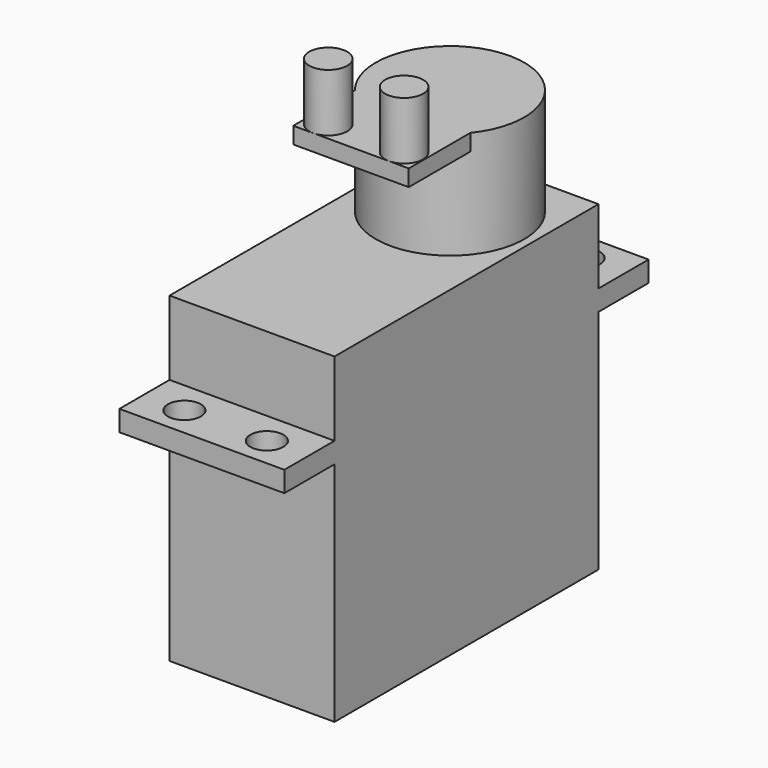
from build123d import *

# Parameters (mm, degrees)
CYLINDER001_R             = 2
CYLINDER001_DEPTH         = 10
CYLINDER_R                = 2
CYLINDER_DEPTH            = 10
BOX001_W                  = 7.6
BOX001_H                  = 20
BOX001_DEPTH              = 2.5
BOX_W                     = 40
BOX_H                     = 20
BOX_DEPTH                 = 39
BOX002_W                  = 14
BOX002_H                  = 16
BOX002_DEPTH              = 2
CYLINDER002_R             = 9
CYLINDER002_DEPTH         = 13
CYLINDER004_R             = 2.3
CYLINDER004_DEPTH         = 7
CYLINDER003_R             = 2.3
CYLINDER003_DEPTH         = 7
FUSION009_PLACEMENT_ANGLE = 90
BODY_ROLL_ANGLE           = 180
BODY_PLACEMENT_ANGLE      = -90


with BuildPart() as cylinder001:
    # Cylinder001 → Cylinder001 (new body)
    with BuildSketch(Plane(origin=(44, 15, 5), x_dir=(1, 0, 0), z_dir=(0, 0, 1))):
        Circle(CYLINDER001_R)
    extrude(amount=CYLINDER001_DEPTH)


with BuildPart() as fusion:
    # Cylinder → Cylinder (new body)
    with BuildSketch(Plane(origin=(44, 5, 5), x_dir=(1, 0, 0), z_dir=(0, 0, 1))):
        Circle(CYLINDER_R)
    extrude(amount=CYLINDER_DEPTH)

    # Fusion: union Cylinder001
    add(cylinder001.part)


with BuildPart() as cut:
    # Box001 → Box001 (new body)
    with BuildSketch(Plane(origin=(40, 0, 9), x_dir=(1, 0, 0), z_dir=(0, 0, 1))):
        with Locations((3.8, 10)):
            Rectangle(BOX001_W, BOX001_H)
    extrude(amount=BOX001_DEPTH)

    # Cut: cut Fusion
    add(fusion.part, mode=Mode.SUBTRACT)


with BuildPart() as cut_1:
    # Cut placement: moved
    add(cut.part.moved(Location((-10, -10, 0))))


with BuildPart() as part_mirroring:
    # Part__Mirroring: instance of Cut
    add(cut_1.part.mirror(Plane(origin=(0, 0, 0), x_dir=(0, -1, 0), z_dir=(1, 0, 0))))


with BuildPart() as part_mirroring_1:
    # Part__Mirroring placement: moved
    add(part_mirroring.part.moved(Location((20, 0, 0))))


with BuildPart() as fusion010:
    # Box → Box (new body)
    with BuildSketch(Plane(origin=(-10, -10, 0), x_dir=(1, 0, 0), z_dir=(0, 0, 1))):
        with Locations((20, 10)):
            Rectangle(BOX_W, BOX_H)
    extrude(amount=BOX_DEPTH)

    # Fusion010: union Part__Mirroring, Cut
    add(part_mirroring_1.part)
    add(cut_1.part)


with BuildPart() as cube002:
    # Box002 → Box002 (new body)
    with BuildSketch(Plane(origin=(-7, -15, 0), x_dir=(1, 0, 0), z_dir=(0, 0, 1))):
        with Locations((7, 8)):
            Rectangle(BOX002_W, BOX002_H)
    extrude(amount=BOX002_DEPTH)


with BuildPart() as shaft:
    # Cylinder002 → Cylinder002 (new body)
    with BuildSketch(Plane.XY):
        Circle(CYLINDER002_R)
    extrude(amount=CYLINDER002_DEPTH)


with BuildPart() as cylinder004:
    # Cylinder004 → Cylinder004 (new body)
    with BuildSketch(Plane(origin=(4.6, -12.7, -7), x_dir=(1, 0, 0), z_dir=(0, 0, 1))):
        Circle(CYLINDER004_R)
    extrude(amount=CYLINDER004_DEPTH)


with BuildPart() as servo:
    # Cylinder003 → Cylinder003 (new body)
    with BuildSketch(Plane(origin=(-4.6, -12.7, -7), x_dir=(1, 0, 0), z_dir=(0, 0, 1))):
        Circle(CYLINDER003_R)
    extrude(amount=CYLINDER003_DEPTH)

    # Fusion009: union Cube002, shaft, Cylinder004
    add(cube002.part)
    add(shaft.part)
    add(cylinder004.part)


with BuildPart() as servo_1:
    # Fusion009 placement: moved
    add(servo.part.moved(Location((0, 0, -13))).rotate(Axis((0, 0, -13), (0, 0, 1)), FUSION009_PLACEMENT_ANGLE))

    # Fusion011: union Fusion010
    add(fusion010.part)


with BuildPart() as servo_2:
    # Fusion011 placement: moved
    add(servo_1.part.moved(Location((10, 10, 0))))


with BuildPart() as servo_3:
    # Body roll: moved
    add(servo_2.part.rotate(Axis((0, 0, 0), (1, 0, 0)), BODY_ROLL_ANGLE))


with BuildPart() as servo_4:
    # Body placement: moved
    add(servo_3.part.moved(Location((10, -1.5, 13.5))).rotate(Axis((10, -1.5, 13.5), (0, 0, 1)), BODY_PLACEMENT_ANGLE))


solid = servo_4.part
